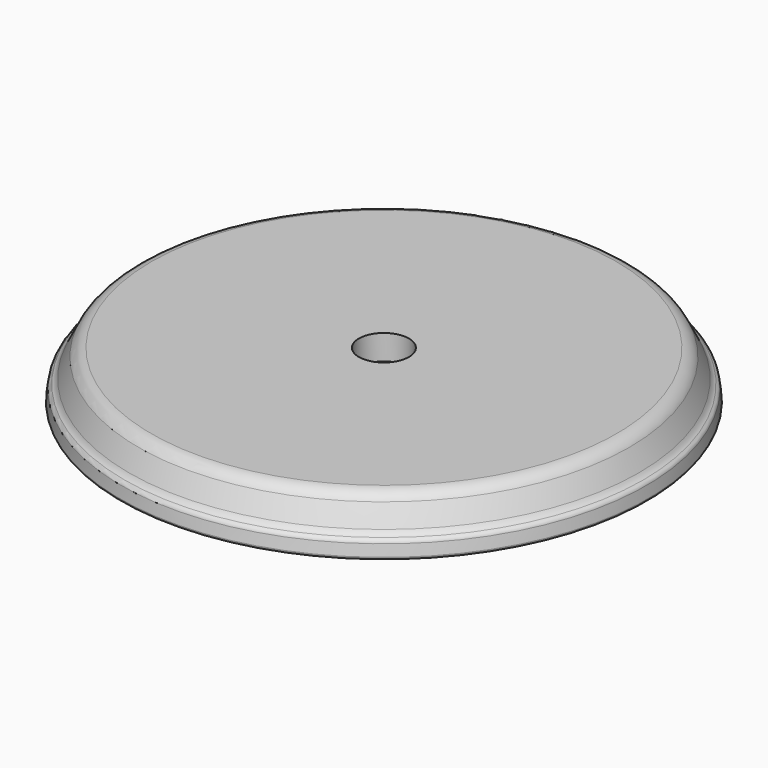
from build123d import *

# Parameters (mm, degrees)
F2_R     = 10
F3_DEPTH = 10


with BuildPart() as f1:
    # F0 (on Front) → F1 (revolve)
    with BuildSketch(Plane.XZ):
        with BuildLine():
            Line((11.689145118, -35.5582595617), (11.689145118, -15.5582595617))
            Line((11.689145118, -15.5582595617), (-81.3329861734, -15.5582595617))
            ThreePointArc((-81.3329861734, -15.5582595617), (-84.211444681, -16.5897334558), (-86.3484293338, -18.7766852998))
            Line((-86.3484293338, -18.7766852998), (-90.1685365005, -26.4905757821))
            ThreePointArc((-90.1685365005, -26.4905757821), (-90.9045353216, -27.6000474155), (-91.9853784144, -28.3774789423))
            ThreePointArc((-91.9853784144, -28.3774789423), (-92.7804477917, -29.0220125857), (-93.2252020866, -29.9438328227))
            Line((-93.2252020866, -29.9438328227), (-93.8142386214, -34.3779310194))
            ThreePointArc((-93.8142386214, -34.3779310194), (-93.4843724367, -35.1773967677), (-92.7079056218, -35.5582595617))
            Line((-92.7079056218, -35.5582595617), (-88.7176468968, -35.5582595617))
            add(Edge.make_bspline(
                [(-88.7176468968, -35.5582595617), (-78.0986901929, -32.6772750403), (-52.9449616904, -25.852922659), (-11.9812376311, -32.0039590454), (11.689145118, -35.5582595617)],
                knots=[0, 0, 0, 0, 0.4221623328, 1, 1, 1, 1], degree=3))
        make_face()
    revolve(axis=Axis((11.689145118, 0, 7.002228424), (0, 0, -1)))

    # F2 (on face) → F3 (cut)
    with BuildSketch(Plane.XY.offset(-15.5582595617)):
        with Locations((11.689145118, 0)):
            Circle(F2_R)
    extrude(amount=-F3_DEPTH, mode=Mode.SUBTRACT)


solid = f1.part
